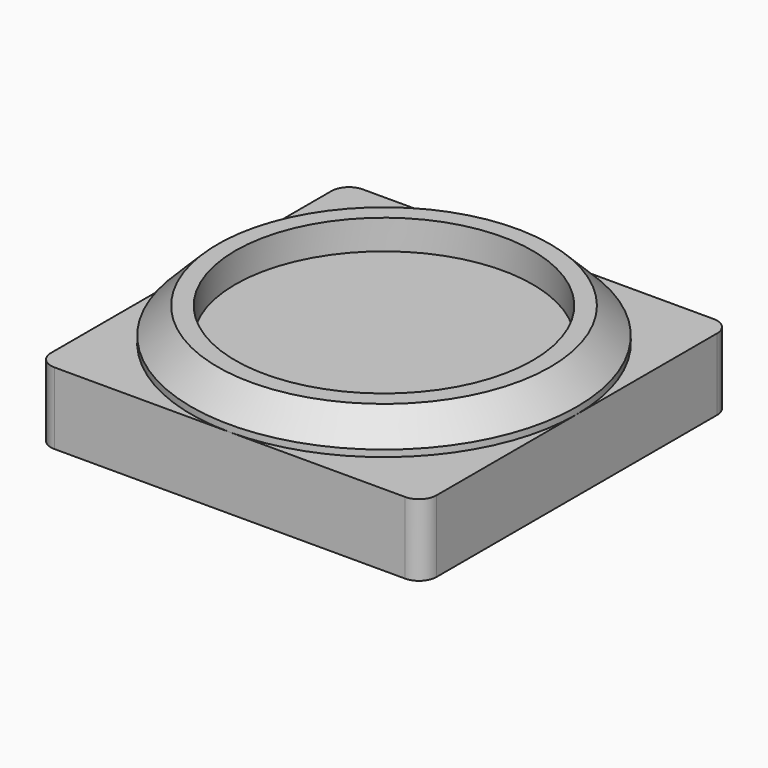
from build123d import *

# Parameters (mm, degrees)
F0_R      = 55.499
F0_R_2    = 42.799
F1_DEPTH  = 9.525
F2_W      = 110.998
F2_H      = 110.998
F3_DEPTH  = 20.701
F4_SIZE   = 7.62
F5_W      = 49.022
F5_H      = 87.122
F6_DEPTH  = 20.32
F7_W      = 10.16
F7_H      = 3.556
F8_DEPTH  = 1
F9_R      = 5
F10_R     = 42.799
F11_DEPTH = 1


with BuildPart() as f1:
    # F0 (on Top) → F1 (new body)
    with BuildSketch(Plane.XY):
        Circle(F0_R)
        Circle(F0_R_2, mode=Mode.SUBTRACT)
    extrude(amount=F1_DEPTH)

    # F2 (on face) → F3 (join)
    with BuildSketch(Plane(origin=(0, 0, 0), x_dir=(1, 0, 0), z_dir=(0, 0, -1))):
        Rectangle(F2_W, F2_H)
    extrude(amount=F3_DEPTH)

    # F4
    f4_edges = [f1.edges().sort_by_distance(p)[0] for p in [
        (-55.499, 0, 9.525),
    ]]
    chamfer(f4_edges, length=F4_SIZE)

    # F5 (on face) → F6 (cut)
    with BuildSketch(Plane(origin=(0, 0, -20.701), x_dir=(1, 0, 0), z_dir=(0, 0, -1))):
        with Locations((-29.988, 6.413653)):
            Rectangle(F5_W, F5_H)
    extrude(amount=-F6_DEPTH, mode=Mode.SUBTRACT)

    # F7 (on face) → F8 (cut, through all)
    with BuildSketch(Plane(origin=(-55.499, 0, 0), x_dir=(0, -1, 0), z_dir=(-1, 0, 0))):
        with Locations((-26.352347, -11.938)):
            Rectangle(F7_W, F7_H)
    extrude(amount=-F8_DEPTH, mode=Mode.SUBTRACT)

    # F9
    f9_edges = [f1.edges().sort_by_distance(p)[0] for p in [
        (-55.499, -55.499, -10.3505),
        (-55.499, 55.499, -10.3505),
        (55.499, -55.499, -10.3505),
        (55.499, 55.499, -10.3505),
    ]]
    fillet(f9_edges, radius=F9_R)

    # F10 (on face) → F11 (join)
    with BuildSketch(Plane.XY):
        Circle(F10_R)
    extrude(amount=F11_DEPTH)


solid = f1.part
